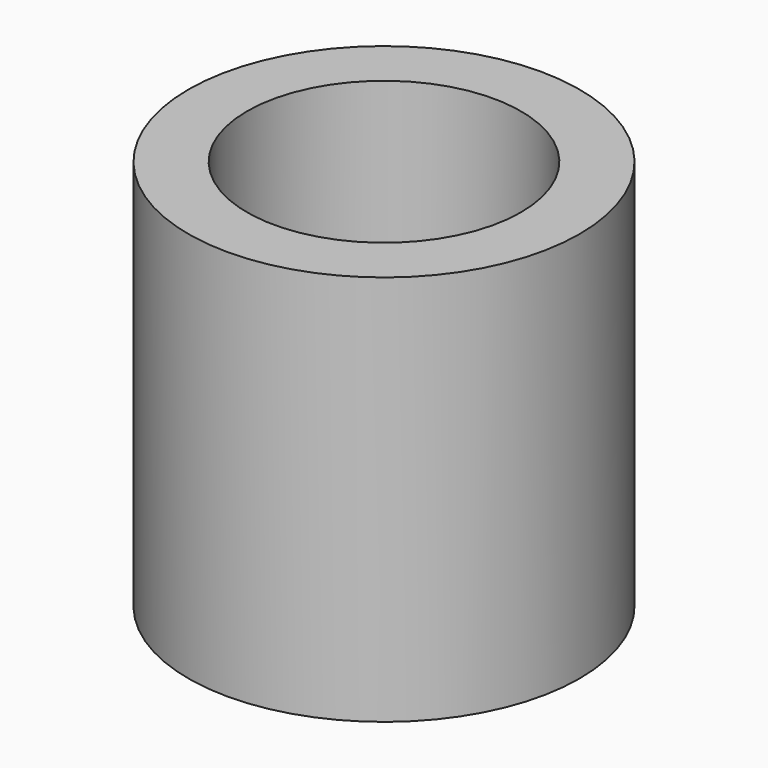
from build123d import *

# Parameters (mm, degrees)
F0_R     = 6.35
F0_R_2   = 4.445
F1_DEPTH = 12.7


with BuildPart() as f1:
    # F0 (on Top) → F1 (new body)
    with BuildSketch(Plane.XY):
        with Locations((-3.695503, -0.369564)):
            Circle(F0_R)
        with Locations((-3.695503, -0.369564)):
            Circle(F0_R_2, mode=Mode.SUBTRACT)
        with Locations((-3.695503, -0.369564)):
            Circle(F0_R)
        with Locations((-3.695503, -0.369564)):
            Circle(F0_R_2, mode=Mode.SUBTRACT)
    extrude(amount=F1_DEPTH)


solid = f1.part
